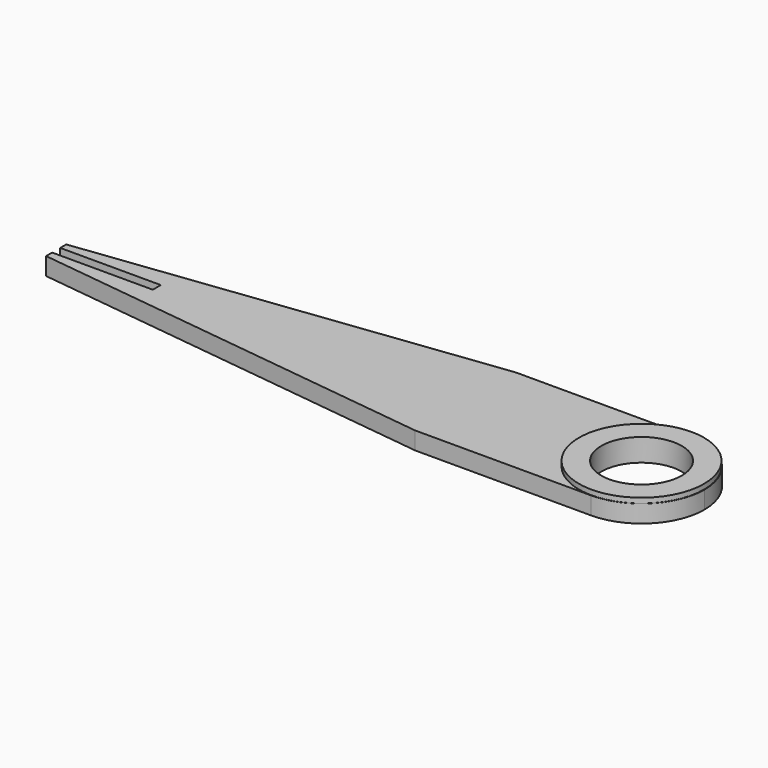
from build123d import *

# Parameters (mm, degrees)
F0_R     = 8
F1_DEPTH = 3.5
F2_R     = 12.430903
F2_R_2   = 8
F3_DEPTH = 1
F4_W     = 20
F4_H     = 2
F5_DEPTH = 2


with BuildPart() as f1:
    # F0 (on Top) → F1 (new body)
    with BuildSketch(Plane.XY):
        with BuildLine():
            ThreePointArc((0, -12.5), (8.838835, -8.838835), (12.5, 0))
            ThreePointArc((12.5, 0), (8.838835, 8.838835), (0, 12.5))
            ThreePointArc((0, 12.5), (-12.5, 0), (0, -12.5))
        make_face()
        Circle(F0_R, mode=Mode.SUBTRACT)
        with BuildLine():
            ThreePointArc((0, -12.5), (-12.5, 0), (0, 12.5))
            Line((0, 12.5), (-35, 12.5))
            Line((-35, 12.5), (-116.388784, 2.506714))
            Line((-116.388784, 2.506714), (-116.388784, -2.506714))
            Line((-116.388784, -2.506714), (-35, -12.5))
            Line((-35, -12.5), (0, -12.5))
        make_face()
    extrude(amount=F1_DEPTH)

    # F2 (on face) → F3 (join)
    with BuildSketch(Plane.XY.offset(3.5)):
        Circle(F2_R)
        Circle(F2_R_2, mode=Mode.SUBTRACT)
    extrude(amount=F3_DEPTH)

    # F4 (on face) → F5 (cut)
    with BuildSketch(Plane.XY.offset(3.5)):
        with Locations((-106.388784, 0.006714)):
            Rectangle(F4_W, F4_H)
    extrude(amount=-F5_DEPTH, mode=Mode.SUBTRACT)


solid = f1.part
